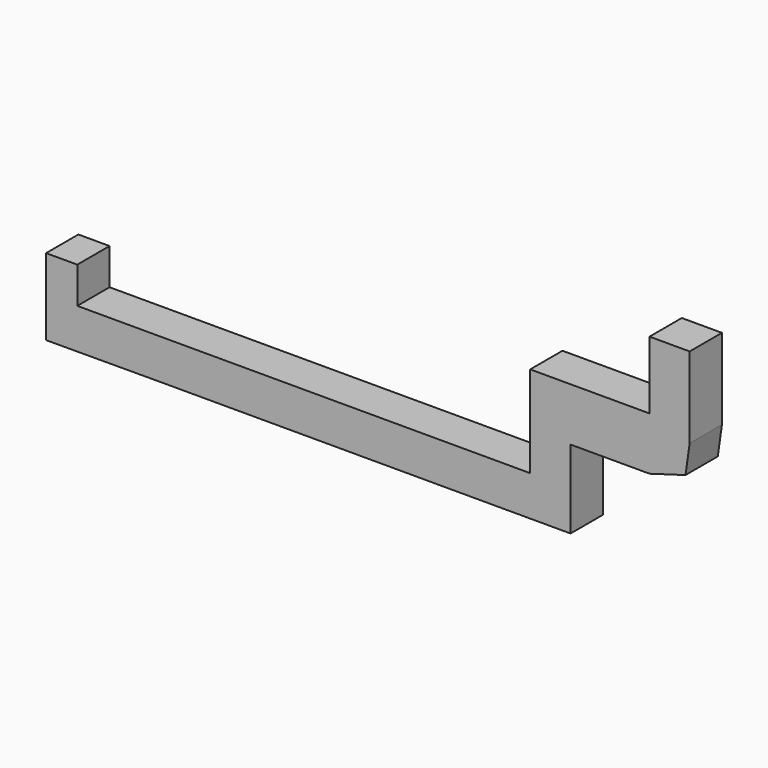
from build123d import *

# Parameters (mm, degrees)
F0_W     = 3.8658287376
F0_H     = 4.4971403014
F1_DEPTH = 5


with BuildPart() as f1:
    # F0 (on Front) → F1 (new body)
    with BuildSketch(Plane.XZ):
        Polygon((-27.5305788964, -12.3905977234), (-13.2927056402, -12.3482672498), (37.4694211036, -12.3482672498), (37.4694211036, -2.6401227806), (47.2564931819, -2.6401227806), (51.7159264395, -1.3378107687), (52.2289585182, 2.292877296), (52.2289585182, 12.3167335987), (47.2564931819, 12.3167335987), (47.2564931819, 3.9355711732), (32.4694211036, 3.9355711732), (32.4694211036, -7.3905977234), (-10.1355845109, -7.3905977234), (-23.6647501588, -7.3905977234), (-27.5305788964, -7.3905977234), align=None)
        with Locations((-25.5976645276, -5.1420275727)):
            Rectangle(F0_W, F0_H)
    extrude(amount=F1_DEPTH)


solid = f1.part
